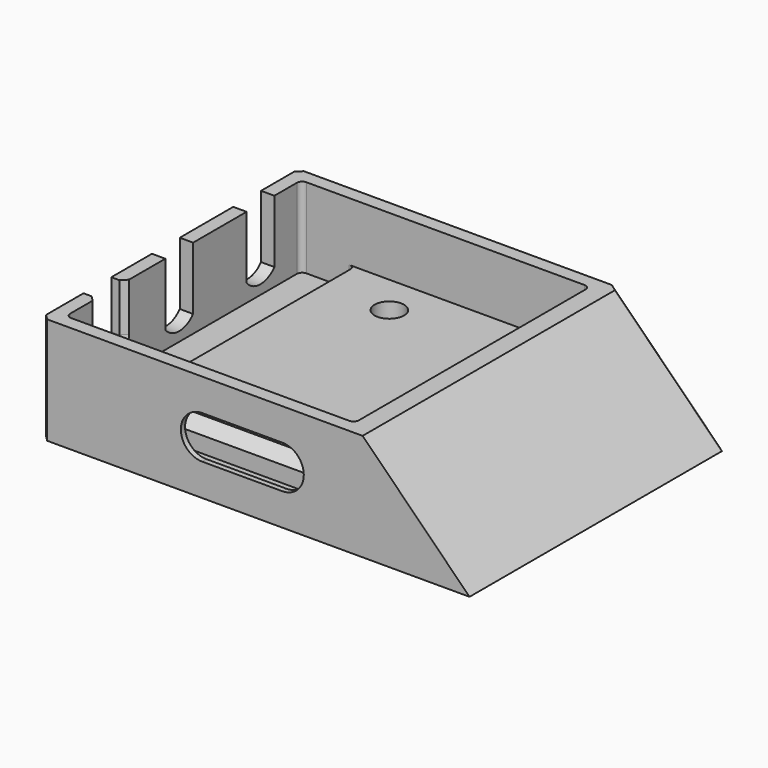
from build123d import *

# Parameters (mm, degrees)
PAD_DEPTH       = 30
SKETCH001_R     = 2.75
SKETCH001_R_2   = 6.5
POCKET_DEPTH    = 20.001
POCKET002_DEPTH = 11
POCKET003_DEPTH = 15
POCKET004_DEPTH = 2
POCKET005_DEPTH = 5
POCKET006_DEPTH = 5
POCKET007_DEPTH = 4
CHAMFER_SIZE    = 1
CHAMFER004_SIZE = 2


with BuildPart() as part:
    # Sketch → Pad (new body, symmetric)
    with BuildSketch(Plane.XZ):
        Polygon((0, 0), (0, 20), (60, 20), (80, 0), align=None)
    extrude(amount=PAD_DEPTH, both=True)

    # Sketch001 → Pocket (cut, through all)
    with BuildSketch(Plane.XY):
        with Locations((25, 20)):
            Circle(SKETCH001_R)
        with Locations((25, -20)):
            Circle(SKETCH001_R)
        with Locations((50, 18)):
            Circle(SKETCH001_R_2)
        with Locations((50, -1)):
            Circle(SKETCH001_R_2)
    extrude(amount=POCKET_DEPTH, mode=Mode.SUBTRACT)

    # Sketch003 → Pocket002 (cut)
    with BuildSketch(Plane.XY.offset(20)):
        with BuildLine():
            ThreePointArc((56.5, 26.5), (56.207107, 27.207107), (55.5, 27.5))
            Line((3.5, 27.5), (55.5, 27.5))
            ThreePointArc((3.5, 27.5), (2.792893, 27.207107), (2.5, 26.5))
            Line((2.5, -26.5), (2.5, 26.5))
            ThreePointArc((2.5, -26.5), (2.792893, -27.207107), (3.5, -27.5))
            Line((55.5, -27.5), (3.5, -27.5))
            ThreePointArc((55.5, -27.5), (56.207107, -27.207107), (56.5, -26.5))
            Line((56.5, 26.5), (56.5, -26.5))
        make_face()
    extrude(amount=-POCKET002_DEPTH, mode=Mode.SUBTRACT)

    # Sketch004 → Pocket003 (cut)
    with BuildSketch(Plane.XY.offset(20)):
        with BuildLine():
            ThreePointArc((3.5, 27.5), (2.792893, 27.207107), (2.5, 26.5))
            Line((2.5, -26.5), (2.5, 26.5))
            ThreePointArc((2.5, -26.5), (2.792893, -27.207107), (3.5, -27.5))
            Line((11.5, -27.5), (3.5, -27.5))
            ThreePointArc((11.5, -27.5), (12.207107, -27.207107), (12.5, -26.5))
            Line((12.5, 26.5), (12.5, -26.5))
            ThreePointArc((12.5, 26.5), (12.207107, 27.207107), (11.5, 27.5))
            Line((3.5, 27.5), (11.5, 27.5))
        make_face()
    extrude(amount=-POCKET003_DEPTH, mode=Mode.SUBTRACT)

    # Sketch005 → Pocket004 (cut)
    with BuildSketch(Plane.XY):
        with BuildLine():
            ThreePointArc((2.5, 26.5), (1.792893, 26.207107), (1.5, 25.5))
            Line((1.5, -25.5), (1.5, 25.5))
            ThreePointArc((1.5, -25.5), (1.792893, -26.207107), (2.5, -26.5))
            Line((75.5, -26.5), (2.5, -26.5))
            ThreePointArc((75.5, -26.5), (76.207107, -26.207107), (76.5, -25.5))
            Line((76.5, 25.5), (76.5, -25.5))
            ThreePointArc((76.5, 25.5), (76.207107, 26.207107), (75.5, 26.5))
            Line((2.5, 26.5), (75.5, 26.5))
        make_face()
    extrude(amount=POCKET004_DEPTH, mode=Mode.SUBTRACT)

    # Sketch006 → Pocket005 (cut)
    with BuildSketch(Plane.YZ):
        with BuildLine():
            ThreePointArc((-4.25, 8.261387), (-1, 6.75), (2.25, 8.261387))
            Line((2.25, 21), (2.25, 8.261387))
            Line((-4.25, 21), (2.25, 21))
            Line((-4.25, 8.261387), (-4.25, 21))
        make_face()
        with BuildLine():
            ThreePointArc((14.75, 8.261387), (18, 6.75), (21.25, 8.261387))
            Line((21.25, 21), (21.25, 8.261387))
            Line((14.75, 21), (21.25, 21))
            Line((14.75, 8.261387), (14.75, 21))
        make_face()
        with BuildLine():
            ThreePointArc((-20.25, 11), (-17, 7.75), (-13.75, 11))
            Line((-13.75, 21), (-13.75, 11))
            Line((-20.25, 21), (-13.75, 21))
            Line((-20.25, 11), (-20.25, 21))
        make_face()
    extrude(amount=POCKET005_DEPTH, mode=Mode.SUBTRACT)

    # Sketch007 → Pocket006 (cut)
    with BuildSketch(Plane.XZ.offset(30)):
        with BuildLine():
            ThreePointArc((30, 14), (26, 10), (30, 6))
            Line((30, 6), (45, 6))
            ThreePointArc((45, 6), (49, 10), (45, 14))
            Line((45, 14), (30, 14))
        make_face()
    extrude(amount=-POCKET006_DEPTH, mode=Mode.SUBTRACT)

    # Sketch009 → Pocket007 (cut)
    with BuildSketch(Plane.XZ.offset(25)):
        with BuildLine():
            ThreePointArc((25, 16), (19, 10), (25, 4))
            Line((25, 4), (50, 4))
            ThreePointArc((50, 4), (56, 10), (50, 16))
            Line((50, 16), (25, 16))
        make_face()
    extrude(amount=POCKET007_DEPTH, mode=Mode.SUBTRACT)

    # Chamfer
    chamfer_edges = [part.edges().sort_by_distance(p)[0] for p in [
        (0, -30, 10),
        (0, 30, 10),
        (2.5, -20.25, 15.5),
        (70, 30, 10),
    ]]
    chamfer(chamfer_edges, length=CHAMFER_SIZE)

    # Chamfer004
    chamfer004_edges = [part.edges().sort_by_distance(p)[0] for p in [
        (37.5, -25, 9),
    ]]
    chamfer(chamfer004_edges, length=CHAMFER004_SIZE)


solid = part.part
